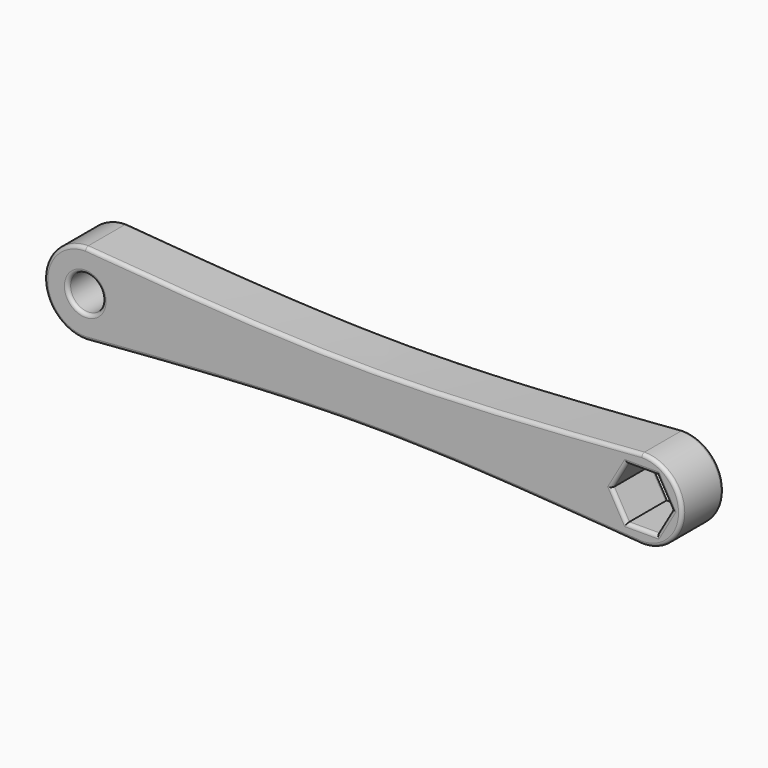
from build123d import *

# Parameters (mm, degrees)
F0_R     = 6.35
F1_DEPTH = 19.05
F2_R     = 1.27
F3_R     = 1.27


with BuildPart() as f1:
    # F0 (on Front) → F1 (new body)
    with BuildSketch(Plane.XZ):
        with BuildLine():
            add(Edge.make_bspline(
                [(-203.0541005576, 29.636442888), (-169.2428086843, 26.9340203064), (-101.598588578, 21.5274458219), (-33.8734169435, 26.7332782693), (0, 29.3370270495)],
                knots=[0, 0, 0, 0, 0.4998400724, 1, 1, 1, 1], degree=3))
            ThreePointArc((-203.0541005576, 29.636442888), (-218.1686404216, 14.6685135247), (-203.0541005576, -0.2994158385))
            add(Edge.make_bspline(
                [(-203.0541005576, -0.2994158385), (-170.646668192, 2.2976834728), (-100.1834122037, 7.8630302228), (-35.2998975721, 2.5504730559), (0, 0)],
                knots=[0, 0, 0, 0, 0.4998400234, 1, 1, 1, 1], degree=3))
            ThreePointArc((0, 0), (14.6685135247, 14.6685135247), (0, 29.3370270495))
        make_face()
        with Locations((-203.2, 14.6685135247)):
            Circle(F0_R, mode=Mode.SUBTRACT)
        Polygon((-10.9985226281, 14.6685135247), (-5.499261314, 24.1935135247), (5.499261314, 24.1935135247), (10.9985226281, 14.6685135247), (5.499261314, 5.1435135247), (-5.499261314, 5.1435135247), align=None, mode=Mode.SUBTRACT)
    extrude(amount=F1_DEPTH)

    # F2
    f2_edges = [f1.edges().sort_by_distance(p)[0] for p in [
        (-101.534961, -19.05, 24.180485),
        (14.668514, -19.05, 14.668514),
        (-101.535407, -19.05, 5.143633),
        (-218.16864, -19.05, 14.668514),
        (-209.55, -19.05, 14.668514),
        (0, -19.05, 5.143514),
        (8.248892, -19.05, 9.906014),
        (8.248892, -19.05, 19.431014),
        (0, -19.05, 24.193514),
        (-8.248892, -19.05, 19.431014),
        (-8.248892, -19.05, 9.906014),
    ]]
    fillet(f2_edges, radius=F2_R)

    # F3
    f3_edges = [f1.edges().sort_by_distance(p)[0] for p in [
        (-101.534961, 0, 24.180485),
        (14.668514, 0, 14.668514),
        (-101.535407, 0, 5.143633),
        (-218.16864, 0, 14.668514),
        (-209.55, 0, 14.668514),
        (0, 0, 5.143514),
        (8.248892, 0, 9.906014),
        (8.248892, 0, 19.431014),
        (0, 0, 24.193514),
        (-8.248892, 0, 19.431014),
        (-8.248892, 0, 9.906014),
    ]]
    fillet(f3_edges, radius=F3_R)


solid = f1.part
